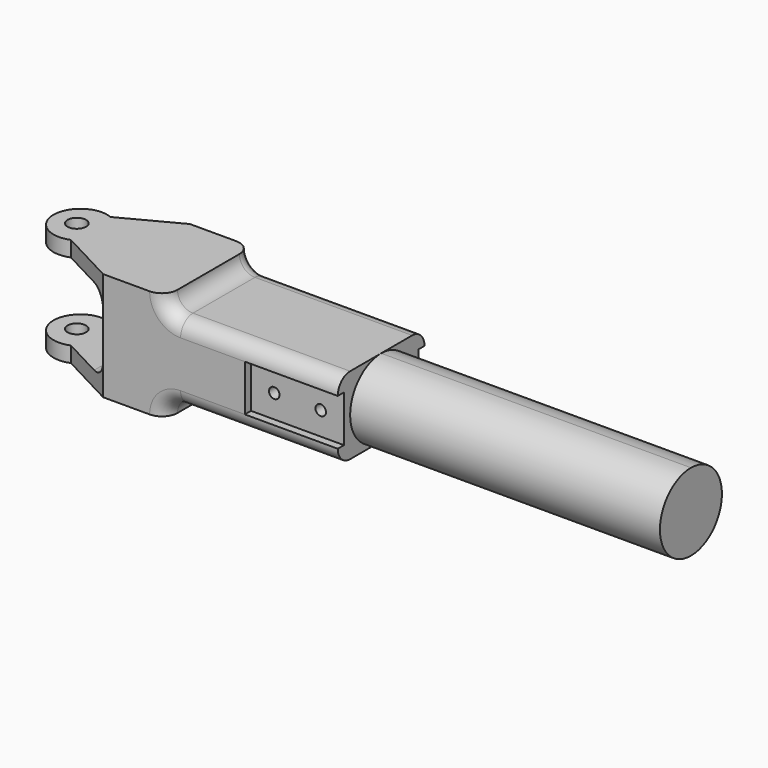
from build123d import *

# Parameters (mm, degrees)
F1_DEPTH  = 35
F2_W      = 30
F2_H      = 15
F3_DEPTH  = 2.5
F4_W      = 30
F4_H      = 15
F5_DEPTH  = 2.5
F7_D      = 3.4
F8_R      = 5
F10_D     = 6
F12_DEPTH = 35
F14_DEPTH = 100


with BuildPart() as f1:
    # F0 (on Front) → F1 (new body)
    with BuildSketch(Plane.XZ):
        with BuildLine():
            Line((7.1641441025, 18.6121761102), (-12.8358558975, 18.6121761102))
            Line((-12.8358558975, 18.6121761102), (-42.8358558975, 18.6121761102))
            Line((-42.8358558975, 18.6121761102), (-42.8358558975, 13.6121761102))
            Line((-42.8358558975, 13.6121761102), (-17.8358558975, 13.6121761102))
            ThreePointArc((-17.8358558975, 13.6121761102), (-14.3003219916, 12.1477100161), (-12.8358558975, 8.6121761102))
            Line((-12.8358558975, 8.6121761102), (-12.8358558975, -6.3878238898))
            ThreePointArc((-12.8358558975, -6.3878238898), (-14.3003219916, -9.9233577957), (-17.8358558975, -11.3878238898))
            Line((-17.8358558975, -11.3878238898), (-42.8358558975, -11.3878238898))
            Line((-42.8358558975, -11.3878238898), (-42.8358558975, -16.3878238898))
            Line((-42.8358558975, -16.3878238898), (-12.8358558975, -16.3878238898))
            Line((-12.8358558975, -16.3878238898), (7.1641441025, -16.3878238898))
            ThreePointArc((7.1641441025, -16.3878238898), (8.6286101965, -12.8522899839), (12.1641441025, -11.3878238898))
            Line((12.1641441025, -11.3878238898), (62.8961617798, -11.3878238898))
            Line((62.8961617798, -11.3878238898), (62.8961617798, 13.6121761102))
            Line((62.8961617798, 13.6121761102), (12.1641441025, 13.6121761102))
            ThreePointArc((12.1641441025, 13.6121761102), (8.6286101965, 15.0766422043), (7.1641441025, 18.6121761102))
        make_face()
        with BuildLine():
            Line((7.1641441025, 18.6121761102), (-12.8358558975, 18.6121761102))
            Line((-12.8358558975, 18.6121761102), (-42.8358558975, 18.6121761102))
            Line((-42.8358558975, 18.6121761102), (-42.8358558975, 13.6121761102))
            Line((-42.8358558975, 13.6121761102), (-17.8358558975, 13.6121761102))
            ThreePointArc((-17.8358558975, 13.6121761102), (-14.3003219916, 12.1477100161), (-12.8358558975, 8.6121761102))
            Line((-12.8358558975, 8.6121761102), (-12.8358558975, -6.3878238898))
            ThreePointArc((-12.8358558975, -6.3878238898), (-14.3003219916, -9.9233577957), (-17.8358558975, -11.3878238898))
            Line((-17.8358558975, -11.3878238898), (-42.8358558975, -11.3878238898))
            Line((-42.8358558975, -11.3878238898), (-42.8358558975, -16.3878238898))
            Line((-42.8358558975, -16.3878238898), (-12.8358558975, -16.3878238898))
            Line((-12.8358558975, -16.3878238898), (7.1641441025, -16.3878238898))
            ThreePointArc((7.1641441025, -16.3878238898), (8.6286101965, -12.8522899839), (12.1641441025, -11.3878238898))
            Line((12.1641441025, -11.3878238898), (62.8961617798, -11.3878238898))
            Line((62.8961617798, -11.3878238898), (62.8961617798, 13.6121761102))
            Line((62.8961617798, 13.6121761102), (12.1641441025, 13.6121761102))
            ThreePointArc((12.1641441025, 13.6121761102), (8.6286101965, 15.0766422043), (7.1641441025, 18.6121761102))
        make_face()
    extrude(amount=F1_DEPTH)

    # F2 (on face) → F3 (cut)
    with BuildSketch(Plane.XZ.offset(35)):
        with Locations((47.8961617798, 1.1121761102)):
            Rectangle(F2_W, F2_H)
    extrude(amount=-F3_DEPTH, mode=Mode.SUBTRACT)

    # F4 (on face) → F5 (cut)
    with BuildSketch(Plane(origin=(0, 0, 0), x_dir=(-1, 0, 0), z_dir=(0, 1, 0))):
        with Locations((-47.8961617798, 1.1121761102)):
            Rectangle(F4_W, F4_H)
    extrude(amount=-F5_DEPTH, mode=Mode.SUBTRACT)

    # F7 (through all)
    with Locations(Plane(origin=(0, -2.5, 0), x_dir=(-1, 0, 0), z_dir=(0, 1, 0))):
        with Locations((-55.3961617798, 1.1121761102), (-40.3961617798, 1.1121761102)):
            Hole(F7_D / 2)

    # F8
    f8_edges = [f1.edges().sort_by_distance(p)[0] for p in [
        (37.530153, 0, -11.387824),
        (37.530153, 0, 13.612176),
        (37.530153, -35, 13.612176),
        (37.530153, -35, -11.387824),
    ]]
    fillet(f8_edges, radius=F8_R)

    # F10 (through all)
    with Locations(Plane.XY.offset(18.6121761102)):
        with Locations((-35.3358558975, -17.5)):
            Hole(F10_D / 2)

    # F11 (on face) → F12 (cut)
    with BuildSketch(Plane(origin=(0, 0, -16.3878238898), x_dir=(1, 0, 0), z_dir=(0, 0, -1))):
        with BuildLine():
            Line((-42.8358558975, 0), (-12.8358558975, 0))
            Line((-12.8358558975, 0), (-30.8358558975, 9.5))
            ThreePointArc((-30.8358558975, 9.5), (-38.9765909315, 10.2888974491), (-42.8358558975, 17.5))
            Line((-42.8358558975, 17.5), (-42.8358558975, 0))
        make_face()
        with BuildLine():
            Line((-30.8358558975, 25.5), (-12.8358558975, 35))
            Line((-12.8358558975, 35), (-42.8358558975, 35))
            Line((-42.8358558975, 35), (-42.8358558975, 17.5))
            ThreePointArc((-42.8358558975, 17.5), (-38.9765909315, 24.7111025509), (-30.8358558975, 25.5))
        make_face()
    extrude(amount=-F12_DEPTH, mode=Mode.SUBTRACT)

    # F13 (on face) → F14 (join)
    with BuildSketch(Plane.YZ.offset(62.8961617798)):
        with BuildLine():
            ThreePointArc((-17.5, -11.3878238898), (-8.6611652352, -7.7266586546), (-5, 1.1121761102))
            ThreePointArc((-5, 1.1121761102), (-8.6611652352, 9.951010875), (-17.5, 13.6121761102))
            ThreePointArc((-17.5, 13.6121761102), (-30, 1.1121761102), (-17.5, -11.3878238898))
        make_face()
    extrude(amount=F14_DEPTH)


solid = f1.part
